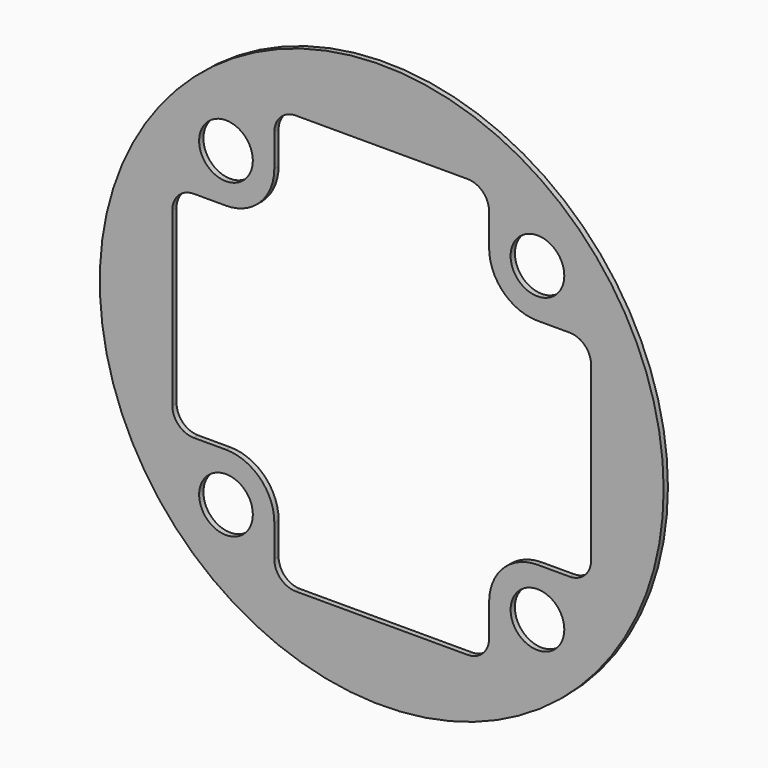
from build123d import *

# Parameters (mm, degrees)
F0_R     = 52.5
F0_R_2   = 5
F1_DEPTH = 1


with BuildPart() as f1:
    # F0 (on Front) → F1 (new body)
    with BuildSketch(Plane.XZ):
        Circle(F0_R)
        with Locations((-29, -29)):
            Circle(F0_R_2, mode=Mode.SUBTRACT)
        with Locations((29, -29)):
            Circle(F0_R_2, mode=Mode.SUBTRACT)
        with Locations((-29, 29)):
            Circle(F0_R_2, mode=Mode.SUBTRACT)
        with BuildLine():
            ThreePointArc((-39, 16), (-37.828427, 18.828427), (-35, 20))
            Line((-35, 20), (-29, 20))
            ThreePointArc((-29, 20), (-22.636039, 22.636039), (-20, 29))
            Line((-20, 29), (-20, 35))
            ThreePointArc((-20, 35), (-18.828427, 37.828427), (-16, 39))
            Line((-16, 39), (16, 39))
            ThreePointArc((16, 39), (18.828427, 37.828427), (20, 35))
            Line((20, 35), (20, 29))
            ThreePointArc((20, 29), (22.636039, 22.636039), (29, 20))
            Line((29, 20), (35, 20))
            ThreePointArc((35, 20), (37.828427, 18.828427), (39, 16))
            Line((39, 16), (39, -16))
            ThreePointArc((39, -16), (37.828427, -18.828427), (35, -20))
            Line((35, -20), (29, -20))
            ThreePointArc((29, -20), (22.636039, -22.636039), (20, -29))
            Line((20, -29), (20, -35))
            ThreePointArc((20, -35), (18.828427, -37.828427), (16, -39))
            Line((16, -39), (-16, -39))
            ThreePointArc((-16, -39), (-18.828427, -37.828427), (-20, -35))
            Line((-20, -35), (-20, -29))
            ThreePointArc((-20, -29), (-22.636039, -22.636039), (-29, -20))
            Line((-29, -20), (-35, -20))
            ThreePointArc((-35, -20), (-37.828427, -18.828427), (-39, -16))
            Line((-39, -16), (-39, 16))
        make_face(mode=Mode.SUBTRACT)
        with Locations((29, 29)):
            Circle(F0_R_2, mode=Mode.SUBTRACT)
    extrude(amount=F1_DEPTH)


solid = f1.part
